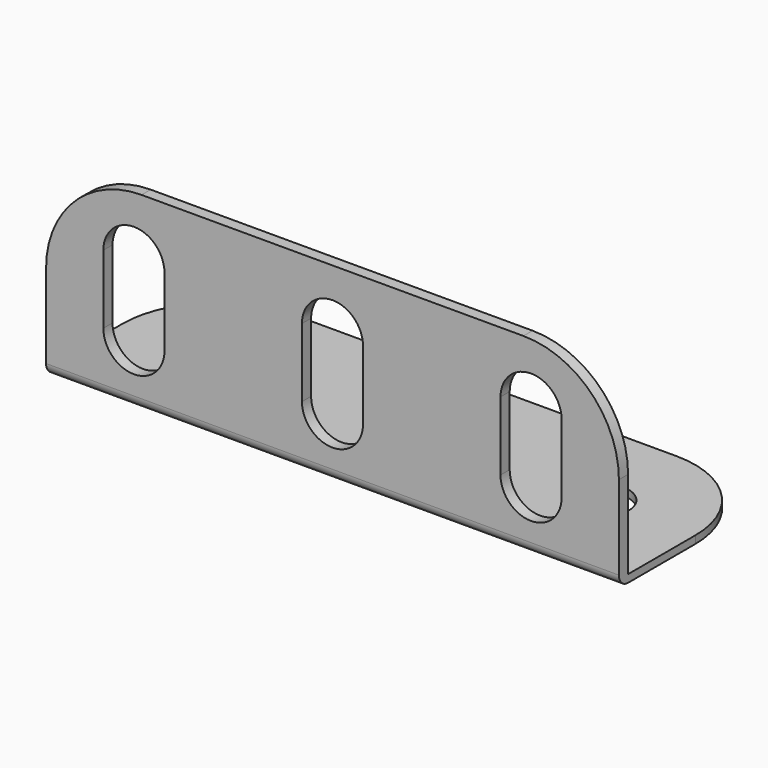
from build123d import *

# Parameters (mm, degrees)
F1_R     = 1.905
F2_DEPTH = 0.508
F8_DEPTH = 0.762
F9_R     = 0.762


with BuildPart() as f2:
    # F1 (on Top) → F2 (new body)
    with BuildSketch(Plane.XY):
        with BuildLine():
            ThreePointArc((19.05, 0), (17.190128, 4.490128), (12.7, 6.35))
            Line((12.7, 6.35), (-12.7, 6.35))
            ThreePointArc((-12.7, 6.35), (-17.190128, 4.490128), (-19.05, 0))
            Line((-19.05, 0), (-19.05, -6.35))
            Line((-19.05, -6.35), (19.05, -6.35))
            Line((19.05, -6.35), (19.05, 0))
        make_face()
        with Locations((-12.7, 0)):
            Circle(F1_R, mode=Mode.SUBTRACT)
        Circle(F1_R, mode=Mode.SUBTRACT)
        with Locations((12.7, 0)):
            Circle(F1_R, mode=Mode.SUBTRACT)
    extrude(amount=F2_DEPTH)

    # F7 (on offset) → F8 (join)
    with BuildSketch(Plane.XZ.offset(6.35)):
        with BuildLine():
            Line((-19.05, 6.35), (-19.05, 0))
            Line((-19.05, 0), (19.05, 0))
            Line((19.05, 0), (19.05, 6.35))
            ThreePointArc((19.05, 6.35), (17.190128, 10.840128), (12.7, 12.7))
            Line((12.7, 12.7), (-12.7, 12.7))
            ThreePointArc((-12.7, 12.7), (-17.190128, 10.840128), (-19.05, 6.35))
        make_face()
        with BuildLine():
            Line((-11.176, 8.636), (-11.176, 4.064))
            ThreePointArc((-11.176, 4.064), (-13.208, 2.032), (-15.24, 4.064))
            Line((-15.24, 4.064), (-15.24, 8.636))
            ThreePointArc((-15.24, 8.636), (-13.208, 10.668), (-11.176, 8.636))
        make_face(mode=Mode.SUBTRACT)
        with BuildLine():
            Line((-2.032, 4.064), (-2.032, 8.636))
            ThreePointArc((-2.032, 8.636), (0, 10.668), (2.032, 8.636))
            Line((2.032, 8.636), (2.032, 4.064))
            ThreePointArc((2.032, 4.064), (0, 2.032), (-2.032, 4.064))
        make_face(mode=Mode.SUBTRACT)
        with BuildLine():
            Line((15.24, 8.636), (15.24, 4.064))
            ThreePointArc((15.24, 4.064), (13.208, 2.032), (11.176, 4.064))
            Line((11.176, 4.064), (11.176, 8.636))
            ThreePointArc((11.176, 8.636), (13.208, 10.668), (15.24, 8.636))
        make_face(mode=Mode.SUBTRACT)
    extrude(amount=-F8_DEPTH)

    # F9
    f9_edges = [f2.edges().sort_by_distance(p)[0] for p in [
        (0, -6.35, 0),
    ]]
    fillet(f9_edges, radius=F9_R)


solid = f2.part
